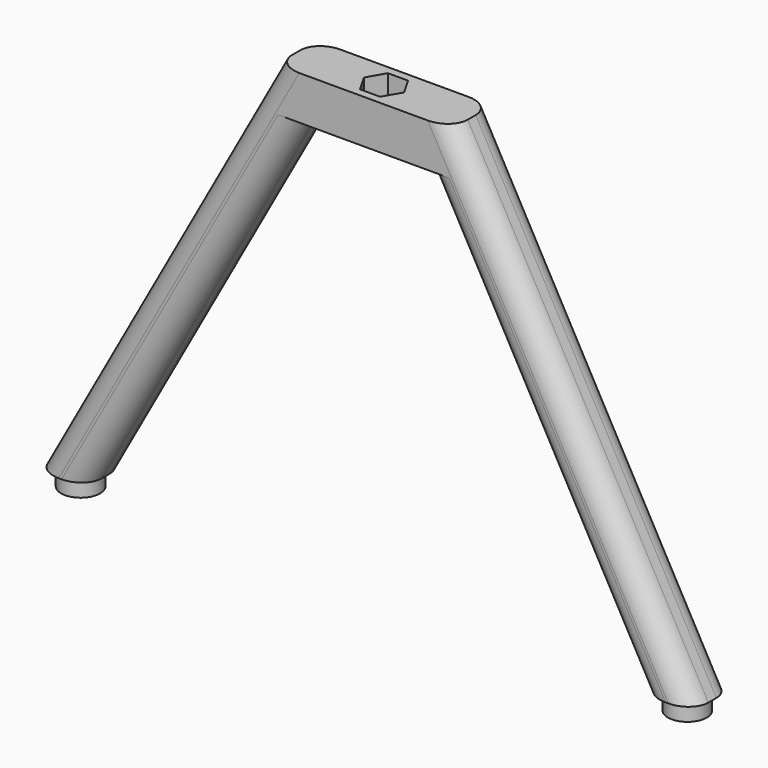
from build123d import *

# Parameters (mm, degrees)
F1_DEPTH = 9
F2_R     = 3.429
F3_R     = 3.429
F4_DEPTH = 3
F6_DEPTH = 7.700001
F7_R     = 3.62132


with BuildPart() as f1:
    # F0 (on Front) → F1 (new body)
    with BuildSketch(Plane.XZ):
        Polygon((-10.932353, 34.76619), (0, 34.76619), (10.932353, 34.76619), (49.100234, -34.23381), (57.899766, -34.23381), (15.472571, 42.466191), (0, 42.466191), (-15.472571, 42.466191), (-57.899766, -34.23381), (-49.100234, -34.23381), align=None)
    extrude(amount=F1_DEPTH)

    # F2 (on face) + F3 (on face) → F4 (join)
    with BuildSketch(Plane(origin=(0, 0, -34.23381), x_dir=(1, 0, 0), z_dir=(0, 0, -1))):
        with Locations((-53.5, 4.5)):
            Circle(F2_R)
    with BuildSketch(Plane(origin=(0, 0, -34.23381), x_dir=(1, 0, 0), z_dir=(0, 0, -1))):
        with Locations((53.5, 4.5)):
            Circle(F3_R)
    extrude(amount=F4_DEPTH)

    # F5 (on face) → F6 (cut, through all)
    with BuildSketch(Plane(origin=(0, 0, 34.76619), x_dir=(1, 0, 0), z_dir=(0, 0, -1))):
        Polygon((-1.778, 7.579586), (-3.556, 4.5), (-1.778, 1.420414), (1.778, 1.420414), (3.556, 4.5), (1.778, 7.579586), align=None)
    extrude(amount=-F6_DEPTH, mode=Mode.SUBTRACT)

    # F7
    f7_edges = [f1.edges().sort_by_distance(p)[0] for p in [
        (-36.686169, -9, 4.11619),
        (-36.686169, 0, 4.11619),
        (36.686169, 0, 4.11619),
        (36.686169, -9, 4.11619),
        (-30.016294, -9, 0.26619),
        (-30.016294, 0, 0.26619),
        (30.016294, -9, 0.26619),
        (30.016294, 0, 0.26619),
    ]]
    fillet(f7_edges, radius=F7_R)


solid = f1.part
